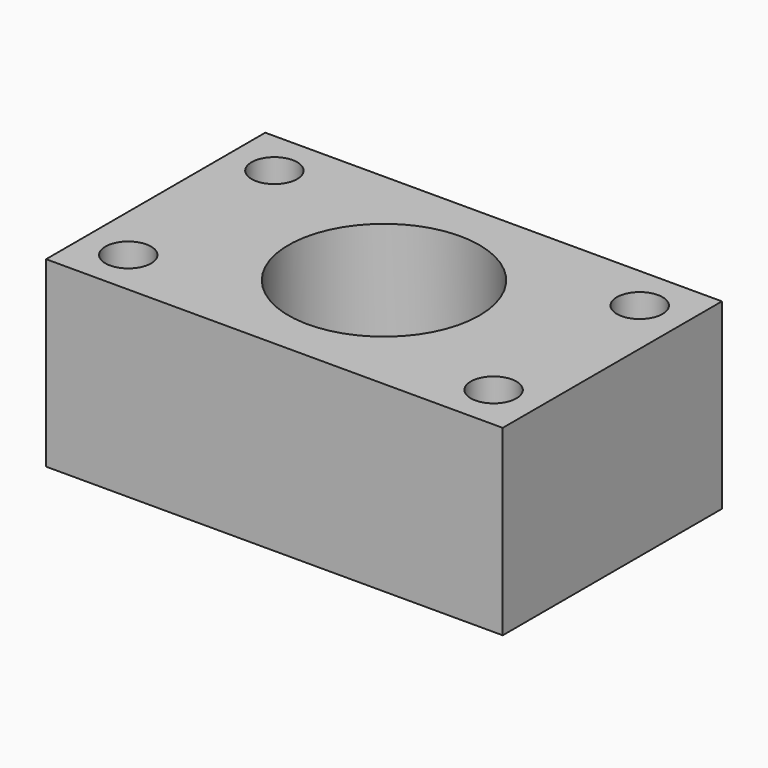
from build123d import *

# Parameters (mm, degrees)
F0_W     = 127
F0_H     = 76.2
F0_R     = 6.35
F1_DEPTH = 50.8
F2_R     = 26.547784
F3_DEPTH = 50.801


with BuildPart() as f1:
    # F0 (on Top) → F1 (new body)
    with BuildSketch(Plane.XY):
        Rectangle(F0_W, F0_H)
        with Locations((-50.8, -25.4)):
            Circle(F0_R, mode=Mode.SUBTRACT)
        with Locations((50.8, -25.4)):
            Circle(F0_R, mode=Mode.SUBTRACT)
        with Locations((-50.8, 25.4)):
            Circle(F0_R, mode=Mode.SUBTRACT)
        with Locations((50.8, 25.4)):
            Circle(F0_R, mode=Mode.SUBTRACT)
    extrude(amount=F1_DEPTH)

    # F2 (on Top) → F3 (cut, through all)
    with BuildSketch(Plane.XY):
        Circle(F2_R)
    extrude(amount=F3_DEPTH, mode=Mode.SUBTRACT)


solid = f1.part
